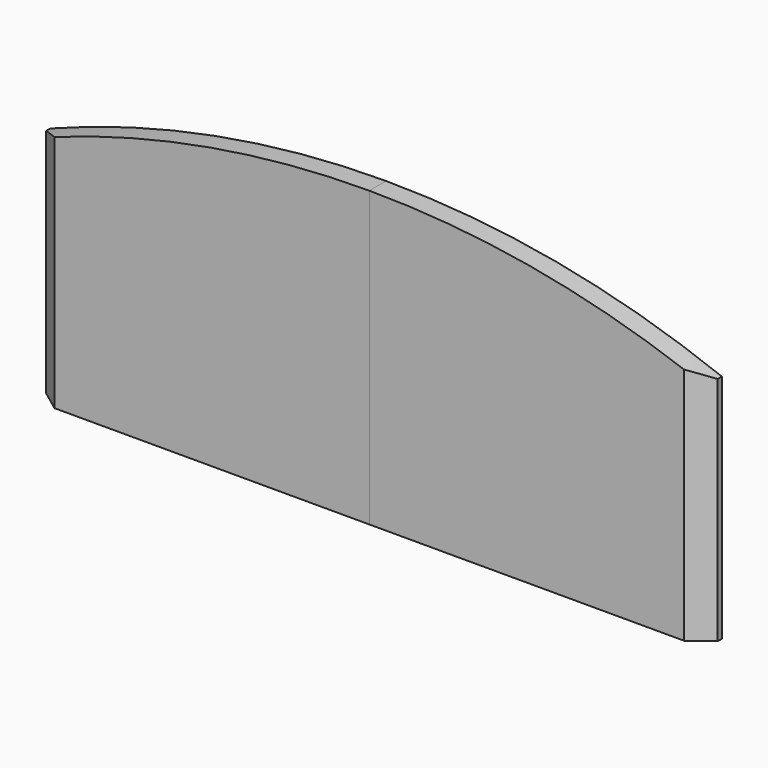
from build123d import *

# Parameters (mm, degrees)
F1_DEPTH = 25.4
F2_DEPTH = 25.4
F3_SIZE2 = 25.4
F3_SIZE  = 19.05
F4_SIZE2 = 19.05
F4_SIZE  = 25.4


with BuildPart() as f1:
    # F0 (on Front) → F1 (new body)
    with BuildSketch(Plane.XZ):
        with BuildLine():
            Line((-406.4, -139.7), (0, -139.7))
            Line((0, -139.7), (0, 215.9))
            ThreePointArc((0, 215.9), (-206.7410215705, 196.6854483758), (-406.4, 139.7))
            Line((-406.4, 139.7), (-406.4, -139.7))
        make_face()
    extrude(amount=F1_DEPTH)

    # F3
    f3_edges = [f1.edges().sort_by_distance(p)[0] for p in [
        (-406.4, -25.4, 0),
    ]]
    f3_side = f1.faces().sort_by_distance((-406.4, -12.7, 0))[0]
    chamfer(f3_edges, length=F3_SIZE, length2=F3_SIZE2, reference=f3_side)


with BuildPart() as f2:
    # F0 (on Front) → F2 (new body)
    with BuildSketch(Plane.XZ):
        with BuildLine():
            Line((0, -139.7), (406.4, -139.7))
            Line((406.4, -139.7), (406.4, 139.7))
            ThreePointArc((406.4, 139.7), (206.7410215705, 196.6854483758), (0, 215.9))
            Line((0, 215.9), (0, -139.7))
        make_face()
    extrude(amount=F2_DEPTH)

    # F4
    f4_edges = [f2.edges().sort_by_distance(p)[0] for p in [
        (406.4, -25.4, 0),
    ]]
    f4_side = f2.faces().sort_by_distance((195.449001, -25.4, 26.350373))[0]
    chamfer(f4_edges, length=F4_SIZE, length2=F4_SIZE2, reference=f4_side)


solid = Compound([f1.part, f2.part])
